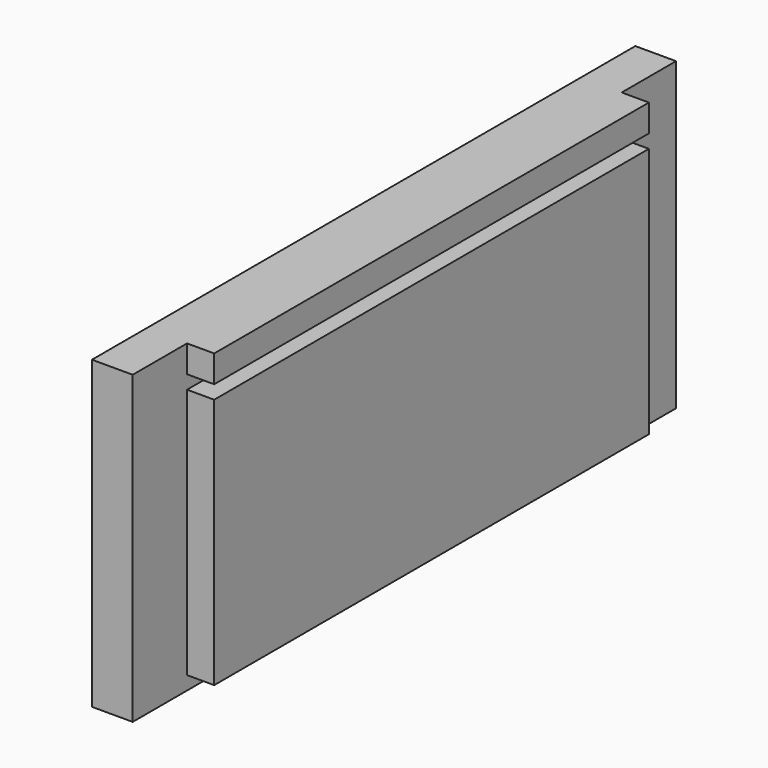
from build123d import *

# Parameters (mm, degrees)
F0_W     = 20
F0_H     = 200
F1_DEPTH = 90
F2_W     = 8
F2_H     = 20
F3_DEPTH = 90
F4_W     = 8
F4_H     = 4
F5_DEPTH = 160


with BuildPart() as f1:
    # F0 (on Top) → F1 (new body)
    with BuildSketch(Plane.XY):
        with Locations((0.281976, 36.310083)):
            Rectangle(F0_W, F0_H)
    extrude(amount=F1_DEPTH)

    # F2 (on face) → F3 (cut, through all)
    with BuildSketch(Plane.XY.offset(90)):
        with Locations((6.281976, 126.310083)):
            Rectangle(F2_W, F2_H)
        with Locations((6.281976, -53.689917)):
            Rectangle(F2_W, F2_H)
    extrude(amount=-F3_DEPTH, mode=Mode.SUBTRACT)

    # F4 (on face) → F5 (cut, through all)
    with BuildSketch(Plane.XZ.offset(43.689917)):
        with Locations((6.281976, 80)):
            Rectangle(F4_W, F4_H)
        with Locations((6.281976, 2)):
            Rectangle(F4_W, F4_H)
    extrude(amount=-F5_DEPTH, mode=Mode.SUBTRACT)


solid = f1.part
